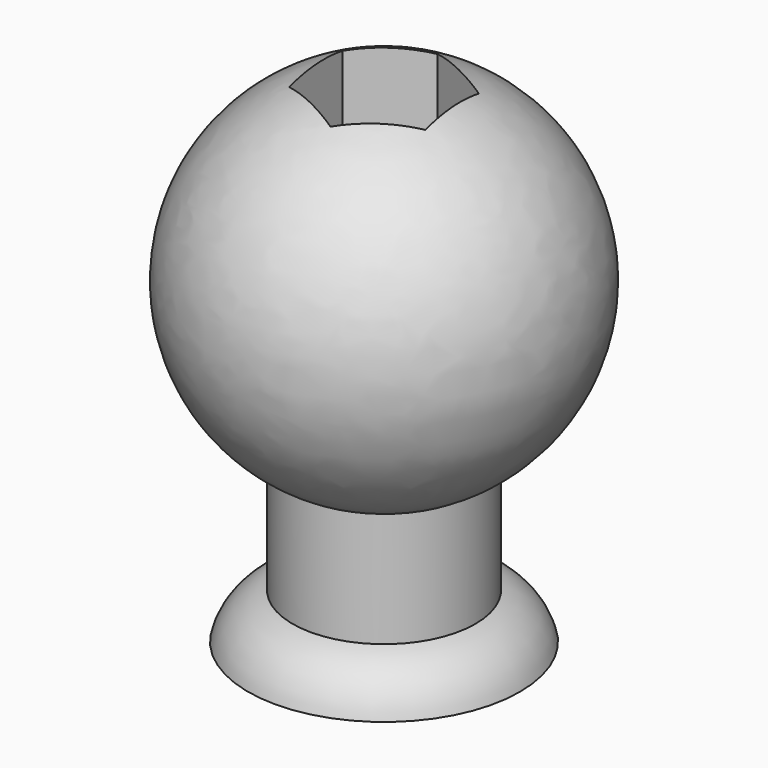
from build123d import *

# Parameters (mm, degrees)
F3_R     = 1.55
F4_DEPTH = 21.928203
F7_DEPTH = 4


with BuildPart() as f2:
    # F1 (on Front) → F2 (revolve)
    with BuildSketch(Plane.XZ):
        with BuildLine():
            Line((-4, -6.928203), (-4, -13.928203))
            Line((-4, -13.928203), (0, -13.928203))
            Line((0, -13.928203), (0, 8))
            ThreePointArc((0, 8), (-7.727407, 2.070552), (-4, -6.928203))
        make_face()
    revolve(axis=Axis((0, 0, -6.658787), (0, 0, -1)))

    # F3 (on face) → F4 (cut, through all)
    with BuildSketch(Plane(origin=(0, 0, -13.928203), x_dir=(1, 0, 0), z_dir=(0, 0, -1))):
        Circle(F3_R)
    extrude(amount=-F4_DEPTH, mode=Mode.SUBTRACT)

    # F6 (on offset) → F7 (cut)
    with BuildSketch(Plane.XY.offset(8)):
        Polygon((0.251373, -3.240264), (2.931837, -1.402437), (2.680465, 1.837827), (-0.251373, 3.240264), (-2.931837, 1.402437), (-2.680465, -1.837827), align=None)
    extrude(amount=-F7_DEPTH, mode=Mode.SUBTRACT)

    # F8 (on Front) → F9 (revolve)
    with BuildSketch(Plane.XZ):
        with BuildLine():
            Line((3.934291, -11.928251), (3.948121, -13.928203))
            Line((3.948121, -13.928203), (5.948121, -13.928203))
            ThreePointArc((5.948121, -13.928203), (5.227793, -12.639651), (3.934291, -11.928251))
        make_face()
    revolve(axis=Axis((0, 0, -6.658787), (0, 0, -1)))


solid = f2.part
